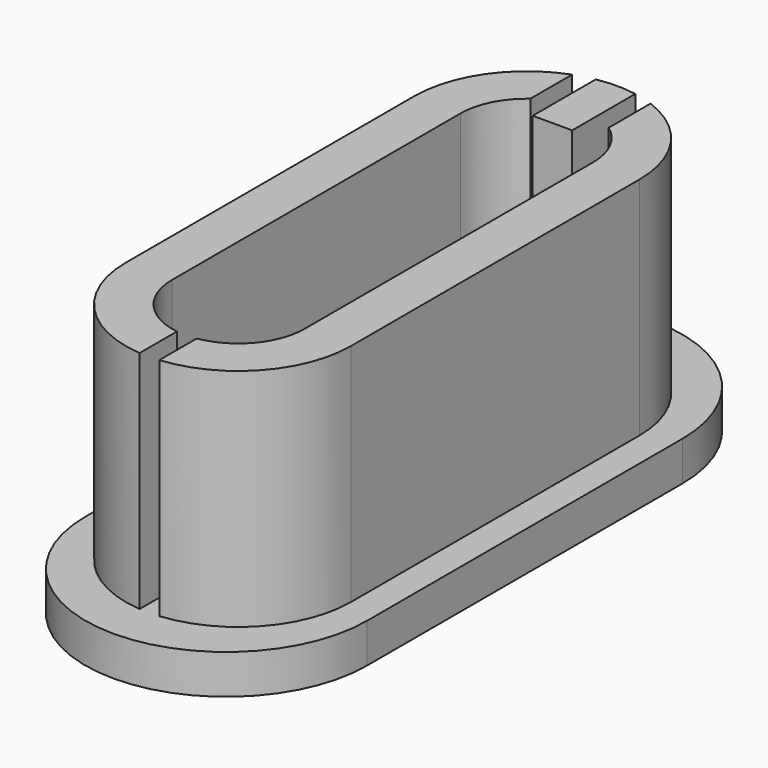
from build123d import *

# Parameters (mm, degrees)
F1_DEPTH = 3.5
F3_DEPTH = 20
F5_DEPTH = 20


with BuildPart() as f1:
    # F0 (on Top) → F1 (new body)
    with BuildSketch(Plane.XY):
        with BuildLine():
            ThreePointArc((12.5, 20), (0, 32.5), (-12.5, 20))
            Line((-12.5, 20), (-12.5, -15))
            ThreePointArc((-12.5, -15), (0, -27.5), (12.5, -15))
            Line((12.5, -15), (12.5, 20))
        make_face()
    extrude(amount=F1_DEPTH)

    # F2 (on face) → F3 (join)
    with BuildSketch(Plane.XY.offset(3.5)):
        with BuildLine():
            ThreePointArc((9.871602, 18.500452), (-0.126027, 28.50059), (-10.128673, 18.50547))
            Line((-10.128673, 18.50547), (-10.128673, -13.49453))
            ThreePointArc((-10.128673, -13.49453), (-0.131046, -23.499687), (9.871602, -13.499548))
            Line((9.871602, -13.499548), (9.871602, 18.500452))
        make_face()
    extrude(amount=F3_DEPTH)

    # F4 (on face) → F5 (cut)
    with BuildSketch(Plane.XY.offset(23.5)):
        with BuildLine():
            ThreePointArc((-3.608536, 23.240072), (-5.374335, 21.156765), (-6.008536, 18.500452))
            Line((-6.008536, 18.500452), (-6.008536, -13.499548))
            ThreePointArc((-6.008536, -13.499548), (-4.553379, -17.371908), (-0.908138, -19.327637))
            Line((-0.908138, -19.327637), (-0.908138, -23.469252))
            ThreePointArc((-0.908138, -23.469252), (-0.035787, -24.319454), (0.821862, -23.454422))
            Line((0.821862, -23.454422), (0.821862, -19.302233))
            ThreePointArc((0.821862, -19.302233), (4.352688, -17.30652), (5.751464, -13.499548))
            Line((5.751464, -13.499548), (5.751464, 18.500452))
            ThreePointArc((5.751464, 18.500452), (5.117262, 21.156765), (3.351464, 23.240072))
            Line((3.351464, 23.240072), (3.351464, 27.875545))
            ThreePointArc((3.351464, 27.875545), (2.584662, 28.471802), (1.621464, 28.346277))
            Line((1.621464, 28.346277), (1.621464, 21.346277))
            Line((1.621464, 21.346277), (-1.878536, 21.346277))
            Line((-1.878536, 21.346277), (-1.878536, 28.346277))
            ThreePointArc((-1.878536, 28.346277), (-2.816511, 28.379103), (-3.608536, 27.875545))
            Line((-3.608536, 27.875545), (-3.608536, 23.240072))
        make_face()
    extrude(amount=-F5_DEPTH, mode=Mode.SUBTRACT)


solid = f1.part
